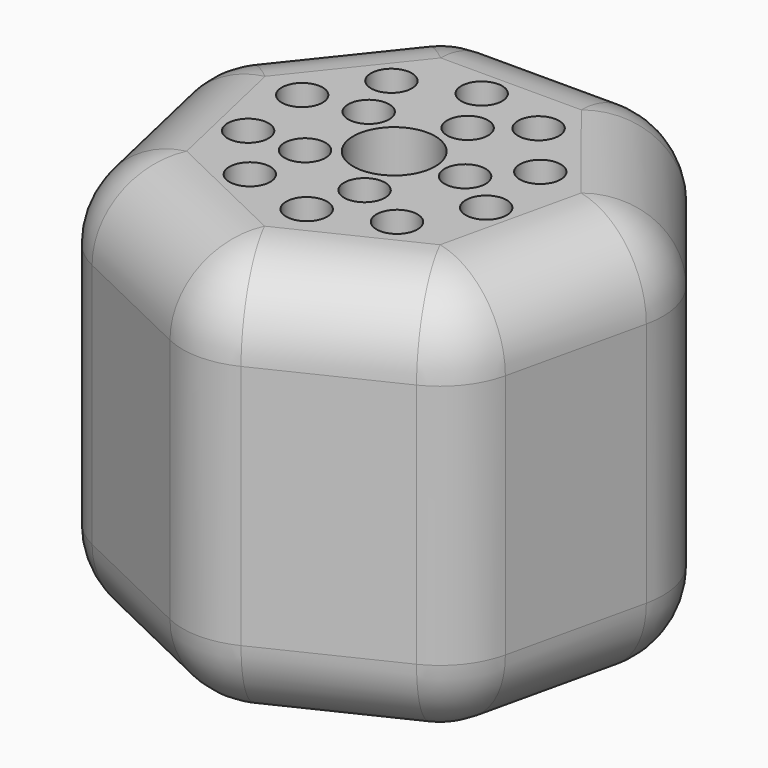
from build123d import *

# Parameters (mm, degrees)
F1_DEPTH = 25.4
F2_R     = 5.08
F3_R     = 5.08
F4_R     = 1.27
F4_R_2   = 2.54
F5_DEPTH = 37.084


with BuildPart() as f1:
    # F0 (on Top) → F1 (new body)
    with BuildSketch(Plane.XY):
        Polygon((6.806168, 14.133153), (-6.806168, 14.133153), (-15.29332, 3.4906), (-12.26429, -9.780445), (0, -15.686616), (12.26429, -9.780445), (15.29332, 3.4906), align=None)
    extrude(amount=F1_DEPTH)

    # F2
    f2_edges = [f1.edges().sort_by_distance(p)[0] for p in [
        (-12.26429, -9.780445, 12.7),
        (-15.29332, 3.4906, 12.7),
        (-6.806168, 14.133153, 12.7),
        (6.806168, 14.133153, 12.7),
        (15.29332, 3.4906, 12.7),
        (12.26429, -9.780445, 12.7),
        (0, -15.686616, 12.7),
    ]]
    fillet(f2_edges, radius=F2_R)

    # F3
    f3_edges = [f1.edges().sort_by_distance(p)[0] for p in [
        (0, 14.133153, 0),
        (0, 14.133153, 25.4),
        (6.563898, 13.630074, 25.4),
        (-6.563898, 13.630074, 25.4),
        (11.049744, 8.811876, 25.4),
        (-11.049744, 8.811876, 25.4),
        (14.748945, 3.36635, 25.4),
        (-14.748945, 3.36635, 25.4),
        (13.778805, -3.144922, 25.4),
        (-13.778805, -3.144922, 25.4),
        (11.827735, -9.432304, 25.4),
        (-11.827735, -9.432304, 25.4),
        (6.132145, -12.73353, 25.4),
        (-6.132145, -12.73353, 25.4),
        (0, -15.128241, 25.4),
    ]]
    fillet(f3_edges, radius=F3_R)

    # F4 (on face) → F5 (cut)
    with BuildSketch(Plane.XY.offset(25.4)):
        with Locations((0.477998, -7.379863)):
            Circle(F4_R)
        with Locations((-3.438198, -2.615431)):
            Circle(F4_R)
        with Locations((4.724483, -5.689474)):
            Circle(F4_R)
        with Locations((7.166376, -1.8259)):
            Circle(F4_R)
        with Locations((4.318873, 0.095006)):
            Circle(F4_R)
        with Locations((6.870957, 2.735106)):
            Circle(F4_R)
        with Locations((3.951066, 6.251395)):
            Circle(F4_R)
        with Locations((1.244249, 4.136851)):
            Circle(F4_R)
        Circle(F4_R_2)
        with Locations((1.424961, -4.078133)):
            Circle(F4_R)
        with Locations((-3.951066, -6.251395)):
            Circle(F4_R)
        with Locations((-6.870957, -2.735106)):
            Circle(F4_R)
        with Locations((-7.166376, 1.8259)):
            Circle(F4_R)
        with Locations((-3.549885, 2.461708)):
            Circle(F4_R)
        with Locations((-4.724483, 5.689474)):
            Circle(F4_R)
        with Locations((-0.477998, 7.379863)):
            Circle(F4_R)
    extrude(amount=-F5_DEPTH, mode=Mode.SUBTRACT)


solid = f1.part
